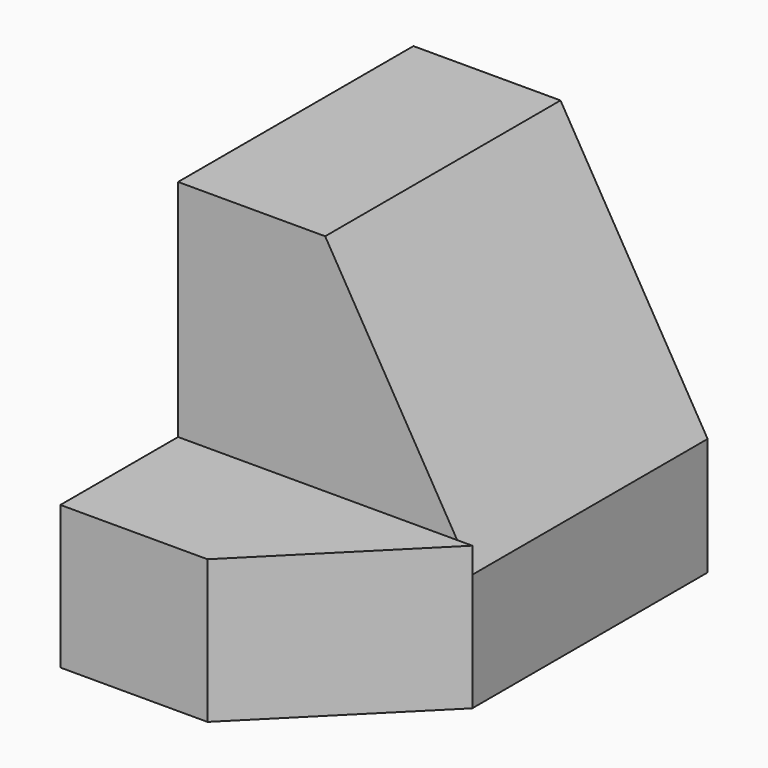
from build123d import *

# Parameters (mm, degrees)
F0_W     = 38.1
F0_H     = 31.75
F1_DEPTH = 25.4
F2_W     = 12.7
F2_H     = 19.3866453245
F3_DEPTH = 25.4
F5_DEPTH = 25.4
F7_DEPTH = 25.4


with BuildPart() as f1:
    # F0 (on Right) → F1 (new body)
    with BuildSketch(Plane.YZ):
        with Locations((19.05, 15.875)):
            Rectangle(F0_W, F0_H)
    extrude(amount=F1_DEPTH)

    # F2 (on face) → F3 (cut)
    with BuildSketch(Plane.YZ.offset(25.4)):
        with Locations((6.35, 22.0566773377)):
            Rectangle(F2_W, F2_H)
    extrude(amount=-F3_DEPTH, mode=Mode.SUBTRACT)

    # F4 (on face) → F5 (cut)
    with BuildSketch(Plane(origin=(0, 38.1, 0), x_dir=(-1, 0, 0), z_dir=(0, 1, 0))):
        Polygon((-25.4, 10.1520223543), (-12.7, 31.75), (-25.4, 31.75), align=None)
    extrude(amount=-F5_DEPTH, mode=Mode.SUBTRACT)

    # F6 (on face) → F7 (cut)
    with BuildSketch(Plane.XY.offset(12.3633546755)):
        Polygon((25.4, 0), (25.4, 12.7), (12.7, 0), align=None)
    extrude(amount=-F7_DEPTH, mode=Mode.SUBTRACT)


solid = f1.part
